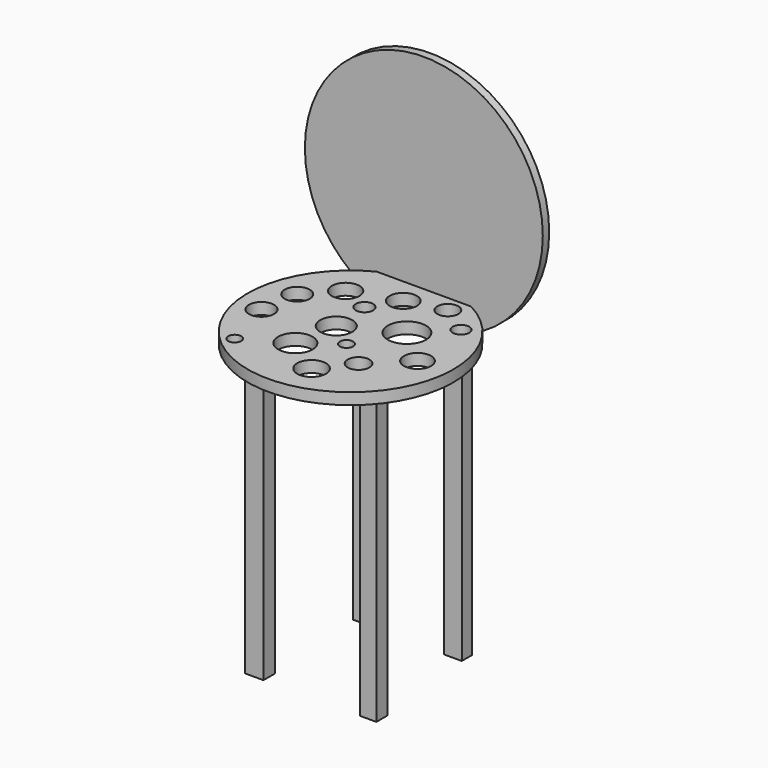
from build123d import *

# Parameters (mm, degrees)
F0_R     = 228.6
F1_DEPTH = 25.4
F2_W     = 40.7838597894
F2_H     = 31.4375534654
F2_W_2   = 36.5355312824
F2_W_3   = 39.9341955781
F2_H_2   = 28.0388891697
F2_W_4   = 44.1825091839
F2_H_3   = 30.5878967047
F3_DEPTH = 635
F4_R     = 27.7412270748
F4_R_2   = 30.6939197936
F4_R_3   = 30.2824794864
F4_R_4   = 42.4661928604
F4_R_5   = 35.685878247
F4_R_6   = 24.0321224842
F4_R_7   = 38.1876319
F4_R_8   = 27.8710420507
F4_R_9   = 30.1720485084
F4_R_10  = 18.3023272337
F4_R_11  = 31.8482226346
F4_R_12  = 14.6181758263
F4_R_13  = 14.8630451227
F4_R_14  = 19.3939328546
F4_R_15  = 23.3309809272
F5_DEPTH = 977.9
F7_START = -203.2
F6_R     = 264.0955993442
F7_DEPTH = 17.78


with BuildPart() as f1:
    # F0 (on Top) → F1 (new body)
    with BuildSketch(Plane.XY):
        Circle(F0_R)
    extrude(amount=F1_DEPTH)

    # F2 (on face) → F3 (join)
    with BuildSketch(Plane(origin=(0, 0, 0), x_dir=(1, 0, 0), z_dir=(0, 0, -1))):
        with Locations((-112.5804446638, 110.8811162412)):
            Rectangle(F2_W, F2_H)
        with Locations((140.1945054531, 110.8811162412)):
            Rectangle(F2_W_2, F2_H)
        with Locations((111.3059483469, -158.4622859955)):
            Rectangle(F2_W_3, F2_H_2)
        with Locations((-90.4891863465, -163.1354317069)):
            Rectangle(F2_W_4, F2_H_3)
    extrude(amount=F3_DEPTH)

    # F4 (on face) → F5 (cut)
    with BuildSketch(Plane.XY.offset(25.4)):
        with Locations((-159.3119651079, 50.9798228741)):
            Circle(F4_R)
        with Locations((-101.5348359942, 113.0052730441)):
            Circle(F4_R_2)
        with Locations((0, 146.142154932)):
            Circle(F4_R_3)
        with Locations((79.4435366988, 56.9274686277)):
            Circle(F4_R_4)
        with Locations((-31.8624041975, 0)):
            Circle(F4_R_5)
        with Locations((86.240850389, -85.8160331845)):
            Circle(F4_R_6)
        with Locations((-47.1563488245, -94.3126752973)):
            Circle(F4_R_7)
        with Locations((-172.0569133759, -32.2872214019)):
            Circle(F4_R_8)
        with Locations((160.1615846157, -14.4442841411)):
            Circle(F4_R_9)
        with Locations((145.7173079252, 124.0509077907)):
            Circle(F4_R_10)
        with Locations((34.4113633037, -151.2401401997)):
            Circle(F4_R_11)
        with Locations((-139.7697031498, -146.9918191433)):
            Circle(F4_R_12)
        with Locations((24.215400219, -41.6335240006)):
            Circle(F4_R_13)
        with Locations((-37.8100499511, 85.8160331845)):
            Circle(F4_R_14)
        with Locations((81.9925293326, 167.3837602139)):
            Circle(F4_R_15)
    extrude(amount=-F5_DEPTH, mode=Mode.SUBTRACT)

    # F6 (on Front) → F7 (join)
    with BuildSketch(Plane.XZ.offset(F7_START)):
        with Locations((0, 215.3596431017)):
            Circle(F6_R)
    extrude(amount=-F7_DEPTH)


solid = f1.part
